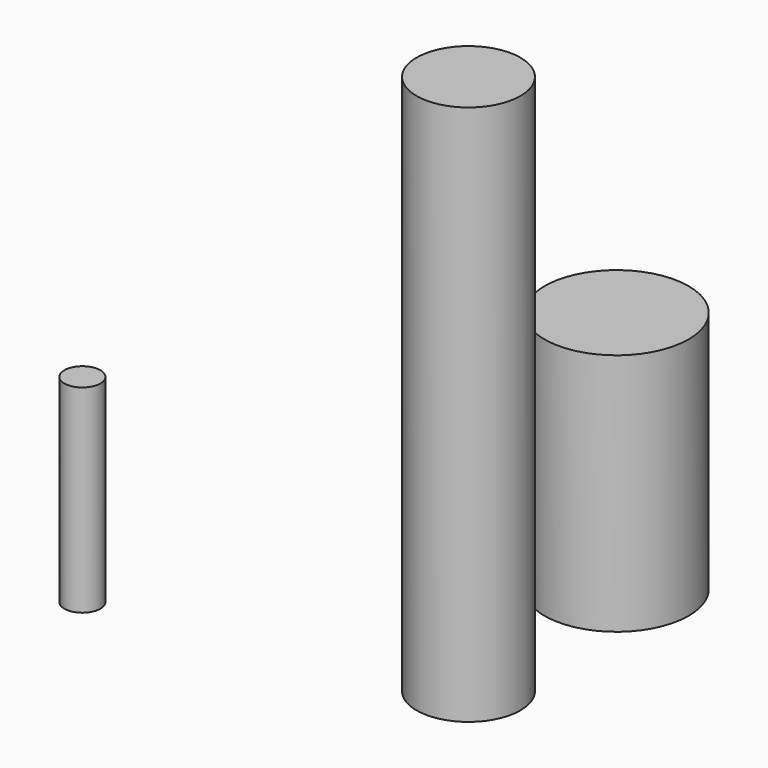
from build123d import *

# Parameters (mm, degrees)
F0_R     = 3.998993
F1_DEPTH = 13.5
F0_R_2   = 0.999494
F2_DEPTH = 15.5
F3_DEPTH = 11
F0_R_3   = 2.881039
F4_DEPTH = 30


with BuildPart() as f1:
    # F0 (on Top) → F1 (new body)
    with BuildSketch(Plane.XY):
        with Locations((-36.209825, 22.131426)):
            Circle(F0_R)
    extrude(amount=F1_DEPTH)


with BuildPart() as f2:
    # F0 (on Top) → F2 (new body)
    with BuildSketch(Plane.XY):
        with Locations((-45.996096, 25.103435)):
            Circle(F0_R_2)
    extrude(amount=F2_DEPTH)


with BuildPart() as f3:
    # F0 (on Top) → F3 (new body)
    with BuildSketch(Plane.XY):
        with Locations((-53.517677, 6.734607)):
            Circle(F0_R_2)
    extrude(amount=F3_DEPTH)


with BuildPart() as f4:
    # F0 (on Top) → F4 (new body)
    with BuildSketch(Plane.XY):
        with Locations((-35.23922, 10.655653)):
            Circle(F0_R_3)
    extrude(amount=F4_DEPTH)


solid = Compound([f1.part, f2.part, f3.part, f4.part])
